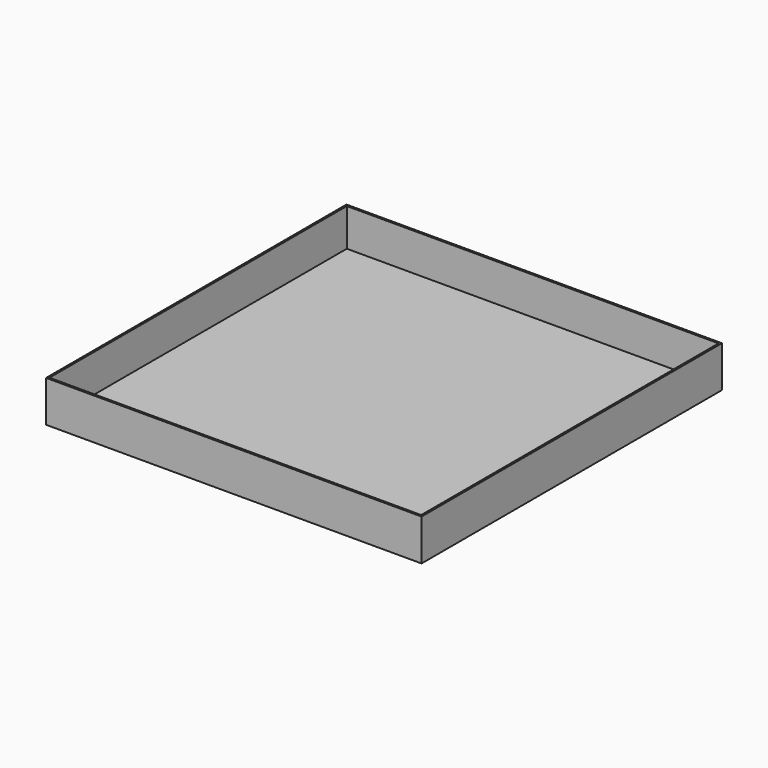
from build123d import *

# Parameters (mm, degrees)
F0_W     = 200
F0_H     = 200
F0_W_2   = 198
F0_H_2   = 198
F1_DEPTH = 20
F2_W     = 200
F2_H     = 200
F3_DEPTH = 2


with BuildPart() as f1:
    # F0 (on Top) → F1 (new body)
    with BuildSketch(Plane.XY):
        Rectangle(F0_W, F0_H)
        Rectangle(F0_W_2, F0_H_2, mode=Mode.SUBTRACT)
    extrude(amount=F1_DEPTH)

    # F2 (on Top) → F3 (join)
    with BuildSketch(Plane.XY):
        Rectangle(F2_W, F2_H)
    extrude(amount=-F3_DEPTH)


solid = f1.part
